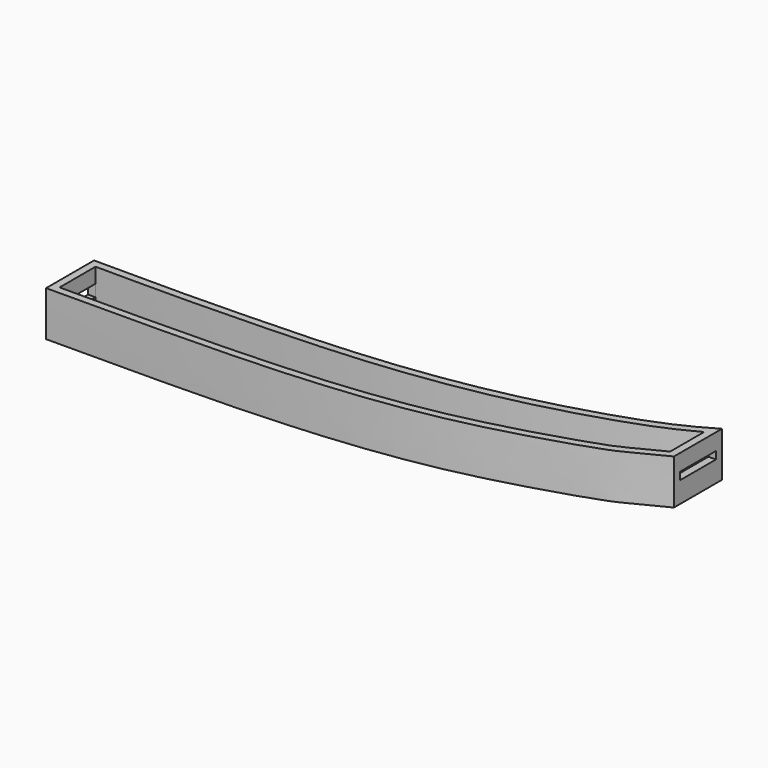
from build123d import *

# Parameters (mm, degrees)
F1_DEPTH = 15
F2_T     = -2.5
F3_W     = 15
F3_H     = 4
F4_DEPTH = 2.5
F5_W     = 15
F5_H     = 2.5
F6_DEPTH = 2.5


with BuildPart() as f1:
    # F0 (on Top) → F1 (new body)
    with BuildSketch(Plane.XY):
        with BuildLine():
            add(Edge.make_bspline(
                [(0, 20), (26.9755970884, 19.816727752), (46.8014260213, 20.2568038594), (89.5851012285, 21.5031885108), (131.9952862297, 27.4015600389), (170.1767487359, 38.9735166564), (181.502610445, 44.7581671178), (187, 48)],
                knots=[0, 0, 0, 0, 0.2332078058, 0.4352153014, 0.6544038109, 0.8583919551, 1, 1, 1, 1], degree=3))
            Line((0, 20), (0, 0))
            add(Edge.make_bspline(
                [(0, 0), (18.4551429238, 0), (50.2133915566, 0.1344641457), (89.1027887864, 1.6734689512), (130.8017993965, 6.7965785232), (174.4513926756, 20.7927209361), (175.1257110926, 22.0723256227), (187, 28)],
                knots=[0, 0, 0, 0, 0.2334958179, 0.4354458538, 0.6543967131, 0.8583890467, 1, 1, 1, 1], degree=3))
            Line((187, 28), (187, 48))
        make_face()
    extrude(amount=F1_DEPTH)

    # F2
    f2_openings = [f1.faces().sort_by_distance(p)[0] for p in [
        (93.450425, 16.290534, 15),
    ]]
    offset(amount=F2_T, openings=f2_openings, kind=Kind.INTERSECTION)

    # F3 (on face) → F4 (cut, through all)
    with BuildSketch(Plane(origin=(0, 0, 0), x_dir=(0, -1, 0), z_dir=(-1, 0, 0))):
        with Locations((-10, 8)):
            Rectangle(F3_W, F3_H)
    extrude(amount=-F4_DEPTH, mode=Mode.SUBTRACT)

    # F5 (on face) → F6 (cut, through all)
    with BuildSketch(Plane.YZ.offset(187)):
        with Locations((38, 8.25)):
            Rectangle(F5_W, F5_H)
    extrude(amount=-F6_DEPTH, mode=Mode.SUBTRACT)


solid = f1.part
